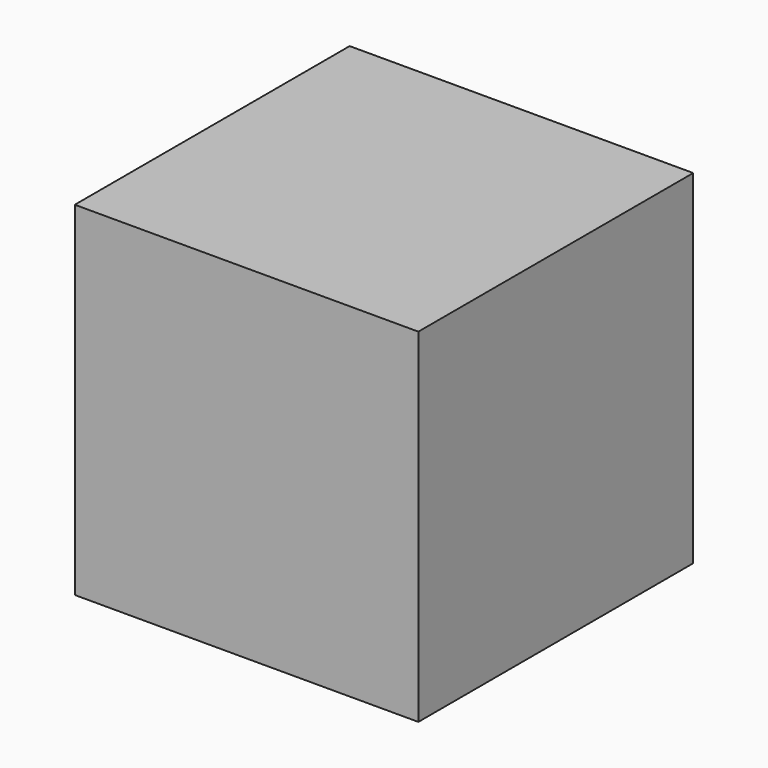
from build123d import *

# Parameters (mm, degrees)
F0_W     = 50.8
F0_H     = 50.8
F1_DEPTH = 50.8
F2_W     = 46.572988
F2_H     = 45.776869
F3_DEPTH = 43.688


with BuildPart() as f1:
    # F0 (on Front) → F1 (new body)
    with BuildSketch(Plane.XZ):
        with Locations((-25.4, 25.4)):
            Rectangle(F0_W, F0_H)
    extrude(amount=F1_DEPTH)

    # F2 (on Top) → F3 (cut)
    with BuildSketch(Plane.XY):
        with Locations((-25.077762, -25.674852)):
            Rectangle(F2_W, F2_H)
    extrude(amount=F3_DEPTH, mode=Mode.SUBTRACT)


solid = f1.part
